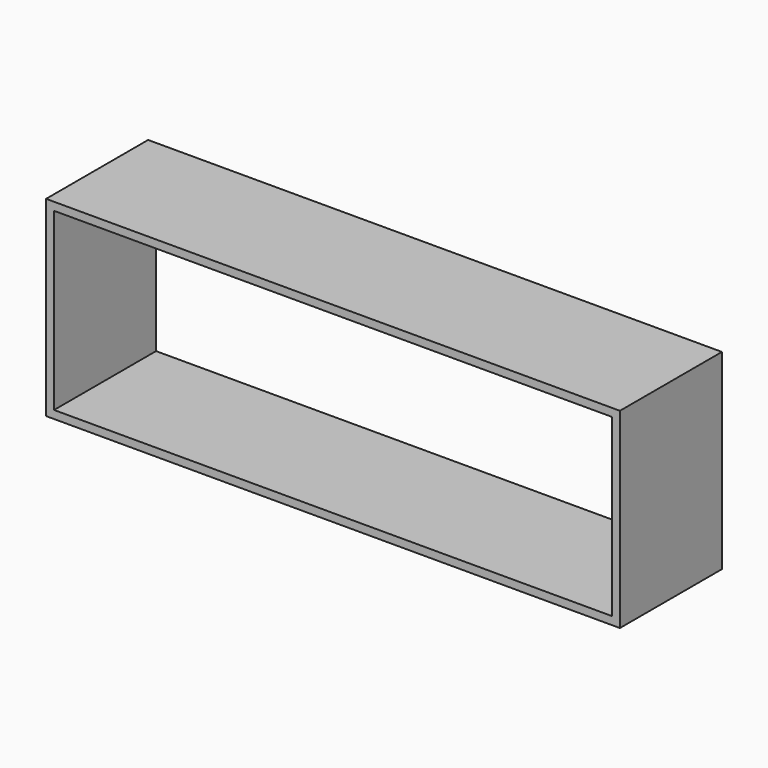
from build123d import *

# Parameters (mm, degrees)
F0_W     = 914.4
F0_H     = 304.8
F1_DEPTH = 203.2
F2_T     = -12.7


with BuildPart() as f1:
    # F0 (on Front) → F1 (new body)
    with BuildSketch(Plane.XZ):
        with Locations((457.2, 152.4)):
            Rectangle(F0_W, F0_H)
    extrude(amount=F1_DEPTH)

    # F2
    f2_openings = [f1.faces().sort_by_distance(p)[0] for p in [
        (457.2, -203.2, 152.4),
        (457.2, 0, 152.4),
    ]]
    offset(amount=F2_T, openings=f2_openings)


solid = f1.part
